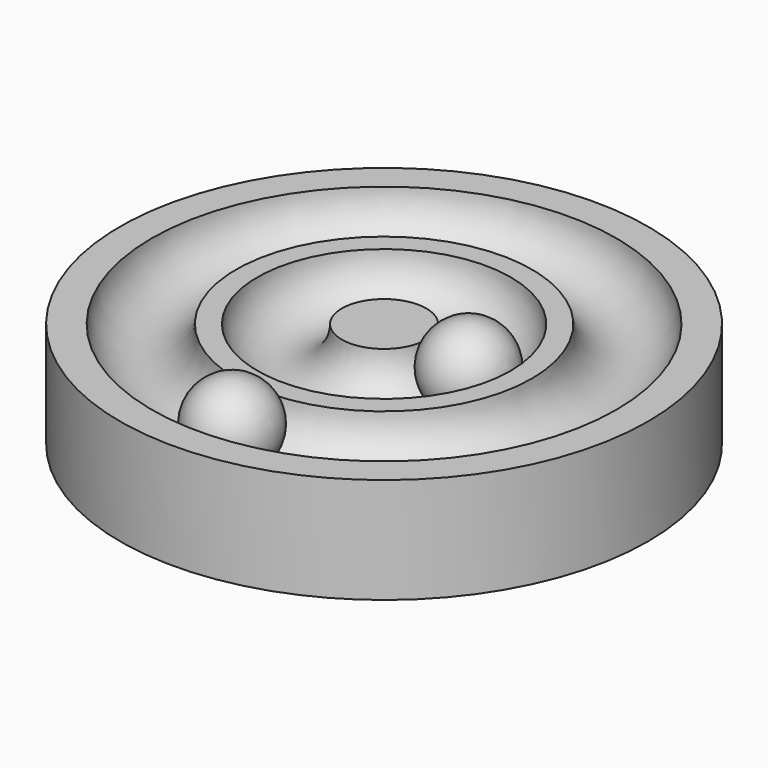
from build123d import *

# Parameters (mm, degrees)
TORUS001_R     = 4
TORUS_R        = 4
CYLINDER_R     = 25
CYLINDER_DEPTH = 10


with BuildPart() as torus001:
    # Torus001 → Torus001 (revolve)
    with BuildSketch(Plane(origin=(0, 0, 10), x_dir=(1, 0, 0), z_dir=(0, -1, 0))):
        with Locations((18, 0)):
            Circle(TORUS001_R)
    revolve(axis=Axis((0, 0, 10), (0, 0, 1)))


with BuildPart() as torus:
    # Torus → Torus (revolve)
    with BuildSketch(Plane(origin=(0, 0, 10), x_dir=(1, 0, 0), z_dir=(0, -1, 0))):
        with Locations((8, 0)):
            Circle(TORUS_R)
    revolve(axis=Axis((0, 0, 10), (0, 0, 1)))


with BuildPart() as cut001:
    # Cylinder → Cylinder (new body)
    with BuildSketch(Plane.XY):
        Circle(CYLINDER_R)
    extrude(amount=CYLINDER_DEPTH)

    # Cut: cut Torus
    add(torus.part, mode=Mode.SUBTRACT)

    # Cut001: cut Torus001
    add(torus001.part, mode=Mode.SUBTRACT)


with BuildPart() as sphere:
    # Sphere → Sphere (revolve)
    with BuildSketch(Plane(origin=(8, 0, 9), x_dir=(1, 0, 0), z_dir=(0, -1, 0))):
        with BuildLine():
            ThreePointArc((0, -4), (4, 0), (0, 4))
            Line((0, 4), (0, -4))
        make_face()
    revolve(axis=Axis((8, 0, 9), (0, 0, 1)))


with BuildPart() as sphere001:
    # Sphere001 → Sphere001 (revolve)
    with BuildSketch(Plane(origin=(0, -18, 9), x_dir=(1, 0, 0), z_dir=(0, -1, 0))):
        with BuildLine():
            ThreePointArc((0, -4), (4, 0), (0, 4))
            Line((0, 4), (0, -4))
        make_face()
    revolve(axis=Axis((0, -18, 9), (0, 0, 1)))


solid = Compound([cut001.part, sphere.part, sphere001.part])
